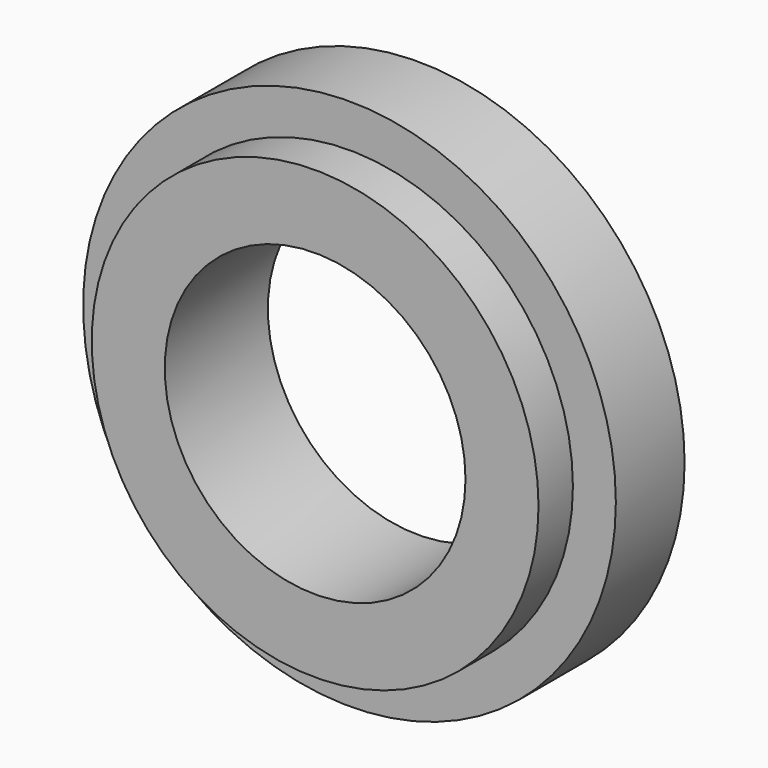
from build123d import *

# Parameters (mm, degrees)
F0_R      = 31
F0_R_2    = 17.5
F1_DEPTH  = 10
F2_R      = 26
F3_DEPTH  = 5
F3_FACE_R = 17.5
F4_DEPTH  = 25.4


with BuildPart() as f1:
    # F0 (on Front) → F1 (new body)
    with BuildSketch(Plane.XZ):
        Circle(F0_R)
        Circle(F0_R_2, mode=Mode.SUBTRACT)
    extrude(amount=F1_DEPTH)

    # F2 (on face) → F3 (join)
    with BuildSketch(Plane.XZ.offset(10)):
        Circle(F2_R)
    extrude(amount=F3_DEPTH)

    # F3_face (on face) → F4 (cut)
    with BuildSketch(Plane(origin=(0, -10, 0), x_dir=(1, 0, 0), z_dir=(0, 1, 0))):
        Circle(F3_FACE_R)
    extrude(amount=-F4_DEPTH, mode=Mode.SUBTRACT)


solid = f1.part
